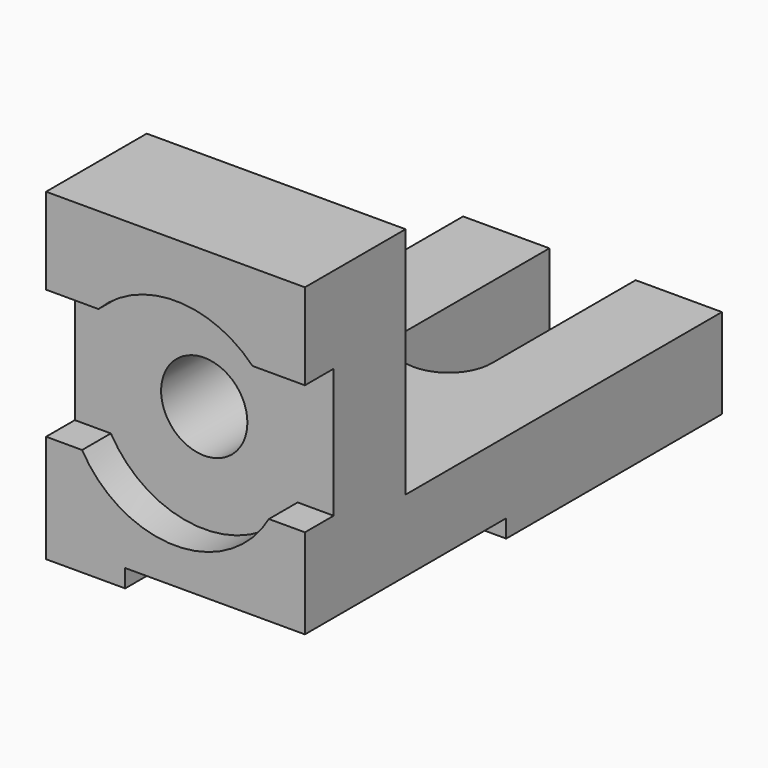
from build123d import *

# Parameters (mm, degrees)
SKETCH_W        = 72
SKETCH_H        = 145
PAD_DEPTH       = 25
SKETCH001_W     = 72
SKETCH001_H     = 35
PAD001_DEPTH    = 65
SKETCH002_W     = 70
SKETCH002_H     = 18.58303
POCKET_DEPTH    = 50
POCKET001_DEPTH = 25.001
SKETCH004_R     = 12
POCKET002_DEPTH = 145.001
SKETCH005_R     = 30
POCKET003_DEPTH = 10
SKETCH006_W     = 22.449348
SKETCH006_H     = 36
POCKET004_DEPTH = 72.001


with BuildPart() as part:
    # Sketch → Pad (new body)
    with BuildSketch(Plane.XY):
        Rectangle(SKETCH_W, SKETCH_H)
    extrude(amount=PAD_DEPTH)

    # Sketch001 → Pad001 (new body)
    with BuildSketch(Plane.XY.offset(25)):
        with Locations((0, -55)):
            Rectangle(SKETCH001_W, SKETCH001_H)
    extrude(amount=PAD001_DEPTH)

    # Sketch002 → Pocket (cut)
    with BuildSketch(Plane.YZ.offset(36)):
        with Locations((-37.5, -4.291515)):
            Rectangle(SKETCH002_W, SKETCH002_H)
    extrude(amount=-POCKET_DEPTH, mode=Mode.SUBTRACT)

    # Sketch003 → Pocket001 (cut, through all)
    with BuildSketch(Plane.XY.offset(25)):
        with BuildLine():
            ThreePointArc((-12, 22.5), (0, 10.5), (12, 22.5))
            Line((12, 22.5), (12, 75.823228))
            ThreePointArc((12, 75.823228), (0, 87.823228), (-12, 75.823228))
            Line((-12, 22.5), (-12, 75.823228))
        make_face()
    extrude(amount=-POCKET001_DEPTH, mode=Mode.SUBTRACT)

    # Sketch004 → Pocket002 (cut, through all)
    with BuildSketch(Plane.XZ.offset(72.5)):
        with Locations((0, 45)):
            Circle(SKETCH004_R)
    extrude(amount=-POCKET002_DEPTH, mode=Mode.SUBTRACT)

    # Sketch005 → Pocket003 (cut)
    with BuildSketch(Plane.XZ.offset(72.5)):
        with Locations((0, 45)):
            Circle(SKETCH005_R)
    extrude(amount=-POCKET003_DEPTH, mode=Mode.SUBTRACT)

    # Sketch006 → Pocket004 (cut, through all)
    with BuildSketch(Plane.YZ.offset(36)):
        with Locations((-73.724674, 48)):
            Rectangle(SKETCH006_W, SKETCH006_H)
    extrude(amount=-POCKET004_DEPTH, mode=Mode.SUBTRACT)


solid = part.part
